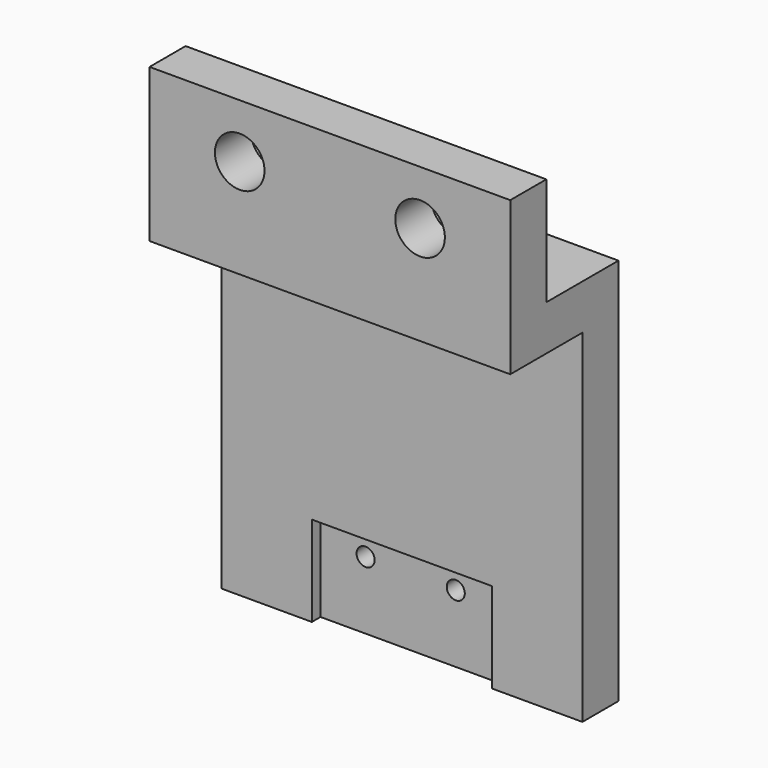
from build123d import *

# Parameters (mm, degrees)
F0_W     = 40
F0_H     = 12
F0_R     = 2.75
F1_DEPTH = 5
F2_W     = 40
F2_H     = 10
F2_H_2   = 5
F3_DEPTH = 5
F4_W     = 40
F4_H     = 5
F5_DEPTH = 38
F6_W     = 20
F6_H     = 10
F7_DEPTH = 1.2
F8_R     = 1
F9_DEPTH = 25


with BuildPart() as f1:
    # F0 (on Front) → F1 (new body)
    with BuildSketch(Plane.XZ):
        with Locations((20, 6)):
            Rectangle(F0_W, F0_H)
        with Locations((10, 6)):
            Circle(F0_R, mode=Mode.SUBTRACT)
        with Locations((30, 6)):
            Circle(F0_R, mode=Mode.SUBTRACT)
    extrude(amount=F1_DEPTH)

    # F2 (on face) → F3 (join)
    with BuildSketch(Plane(origin=(0, 0, 0), x_dir=(1, 0, 0), z_dir=(0, 0, -1))):
        with Locations((20, -5)):
            Rectangle(F2_W, F2_H)
        with Locations((20, 2.5)):
            Rectangle(F2_W, F2_H_2)
    extrude(amount=F3_DEPTH)

    # F4 (on face) → F5 (join)
    with BuildSketch(Plane(origin=(0, 0, -5), x_dir=(1, 0, 0), z_dir=(0, 0, -1))):
        with Locations((20, -7.5)):
            Rectangle(F4_W, F4_H)
    extrude(amount=F5_DEPTH)

    # F6 (on face) → F7 (cut)
    with BuildSketch(Plane.XZ.offset(-5)):
        with Locations((20, -38)):
            Rectangle(F6_W, F6_H)
    extrude(amount=-F7_DEPTH, mode=Mode.SUBTRACT)

    # F8 (on face) → F9 (cut)
    with BuildSketch(Plane.XZ.offset(-6.2)):
        with Locations((15, -35.5)):
            Circle(F8_R)
        with Locations((25, -35.5)):
            Circle(F8_R)
    extrude(amount=-F9_DEPTH, mode=Mode.SUBTRACT)


solid = f1.part
